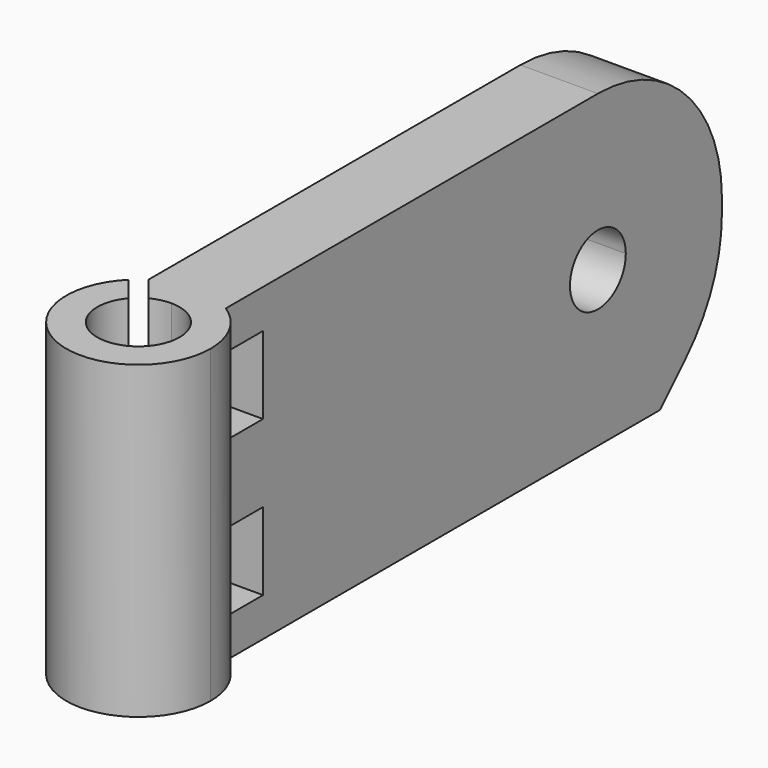
from build123d import *

# Parameters (mm, degrees)
F1_DEPTH = 20
F3_DEPTH = 7.151
F4_R     = 10
F5_SIZE  = 5
F6_R     = 10


with BuildPart() as f1:
    # F0 (on Top) → F1 (new body)
    with BuildSketch(Plane.XY):
        with BuildLine():
            ThreePointArc((2.65, 0), (-0.9156644986, -2.4867767343), (-2.0172139819, 1.7185306955))
            Line((-2.0172139819, 1.7185306955), (-2.6488466474, 2.5070635361))
            Line((-2.6488466474, 2.5070635361), (-3.2804793129, 3.2955963767))
            ThreePointArc((-3.2804793129, 3.2955963767), (-1.7844146372, -4.2939916631), (4.65, 0))
            ThreePointArc((4.65, 0), (4.0772233199, 2.2357884515), (2.5, 3.920777984))
            ThreePointArc((2.5, 3.920777984), (1.3020910825, 4.4639734333), (0, 4.65))
            Line((0, 4.65), (0, 2.65))
            ThreePointArc((0, 2.65), (1.8738329701, 1.8738329701), (2.65, 0))
        make_face()
        with BuildLine():
            Line((0, 43.920777984), (0, 4.65))
            ThreePointArc((0, 4.65), (1.3020910825, 4.4639734333), (2.5, 3.920777984))
            Line((2.5, 3.920777984), (2.5, 43.920777984))
            Line((2.5, 43.920777984), (0, 43.920777984))
        make_face()
        with BuildLine():
            ThreePointArc((-1.236734669, 2.3437123028), (-0.6370488198, 2.572288631), (0, 2.65))
            Line((0, 2.65), (0, 4.65))
            ThreePointArc((0, 4.65), (-1.3020910825, 4.4639734333), (-2.5, 3.920777984))
            Line((-2.5, 3.920777984), (-1.8683673345, 3.1322451434))
            Line((-1.8683673345, 3.1322451434), (-1.236734669, 2.3437123028))
        make_face()
        with BuildLine():
            ThreePointArc((-2.5, 3.920777984), (-1.3020910825, 4.4639734333), (0, 4.65))
            Line((0, 4.65), (0, 43.920777984))
            Line((0, 43.920777984), (-2.5, 43.920777984))
            Line((-2.5, 43.920777984), (-2.5, 3.920777984))
        make_face()
    extrude(amount=F1_DEPTH)

    # F2 (on face) → F3 (cut, through all)
    with BuildSketch(Plane(origin=(-2.5, 0, 0), x_dir=(0, -1, 0), z_dir=(-1, 0, 0))):
        with BuildLine():
            Line((-33.920777984, 10), (-33.920777984, 12.25))
            ThreePointArc((-33.920777984, 12.25), (-35.5117682417, 11.5909902577), (-36.170777984, 10))
            Line((-36.170777984, 10), (-33.920777984, 10))
        make_face()
        with BuildLine():
            ThreePointArc((-36.170777984, 10), (-33.920777984, 7.75), (-31.670777984, 10))
            ThreePointArc((-31.670777984, 10), (-32.3297877264, 11.5909902577), (-33.920777984, 12.25))
            Line((-33.920777984, 12.25), (-33.920777984, 10))
            Line((-33.920777984, 10), (-36.170777984, 10))
        make_face()
        Polygon((-3.920777984, 17.5), (-5.420777984, 17.5), (-6.920777984, 17.5), (-6.920777984, 12.5), (-3.920777984, 12.5), align=None)
        Polygon((-6.920777984, 2.5), (-5.420777984, 2.5), (-3.920777984, 2.5), (-3.920777984, 7.5), (-6.920777984, 7.5), align=None)
    extrude(amount=-F3_DEPTH, mode=Mode.SUBTRACT)

    # F4
    f4_edges = [f1.edges().sort_by_distance(p)[0] for p in [
        (0, 43.920778, 20),
    ]]
    fillet(f4_edges, radius=F4_R)

    # F5
    f5_edges = [f1.edges().sort_by_distance(p)[0] for p in [
        (0, 43.920778, 0),
    ]]
    chamfer(f5_edges, length=F5_SIZE)

    # F6
    f6_edges = [f1.edges().sort_by_distance(p)[0] for p in [
        (0, 43.920778, 5),
    ]]
    fillet(f6_edges, radius=F6_R)


solid = f1.part
